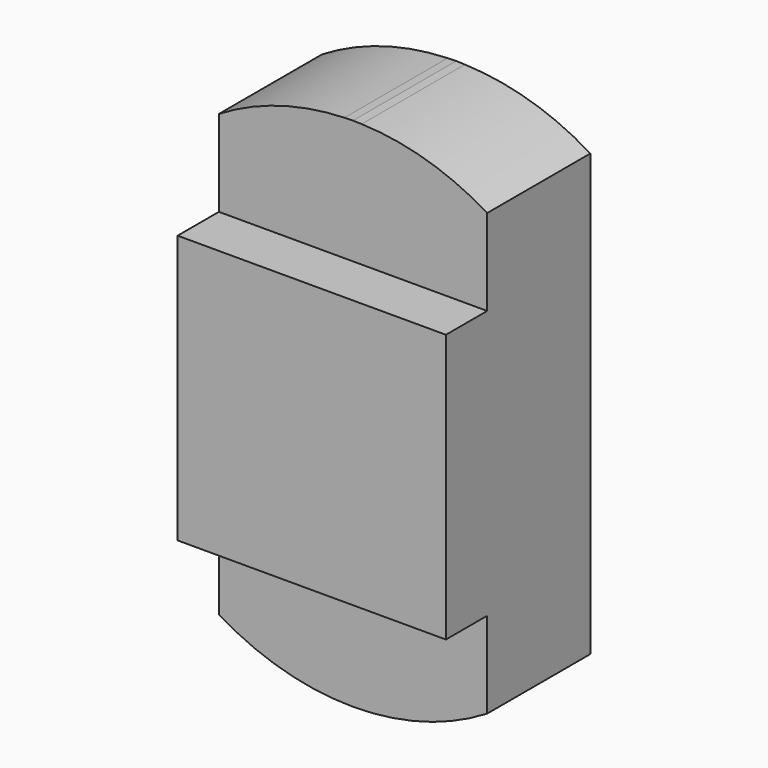
from build123d import *

# Parameters (mm, degrees)
F0_R      = 12.7
F1_DEPTH  = 10
F1_FACE_W = 52
F1_FACE_H = 52
F2_DEPTH  = 25


with BuildPart() as f1:
    # F0 (on Front) → F1 (new body)
    with BuildSketch(Plane.XZ):
        with BuildLine():
            Line((-26, -26), (0, -26))
            ThreePointArc((0, -26), (-18.384776, -18.384776), (-26, 0))
            Line((-26, 0), (-26, -26))
        make_face()
        with BuildLine():
            Line((26, -26), (26, 0))
            ThreePointArc((26, 0), (18.384776, -18.384776), (0, -26))
            Line((0, -26), (26, -26))
        make_face()
        with BuildLine():
            ThreePointArc((-26, 0), (-18.384776, 18.384776), (0, 26))
            Line((0, 26), (-26, 26))
            Line((-26, 26), (-26, 0))
        make_face()
        with BuildLine():
            ThreePointArc((0, 26), (18.384776, 18.384776), (26, 0))
            Line((26, 0), (26, 26))
            Line((26, 26), (0, 26))
        make_face()
        with BuildLine():
            ThreePointArc((0, -26), (18.384776, -18.384776), (26, 0))
            ThreePointArc((26, 0), (18.384776, 18.384776), (0, 26))
            ThreePointArc((0, 26), (-18.384776, 18.384776), (-26, 0))
            ThreePointArc((-26, 0), (-18.384776, -18.384776), (0, -26))
        make_face()
        Circle(F0_R, mode=Mode.SUBTRACT)
        Circle(F0_R)
    extrude(amount=F1_DEPTH)

    # F0 (on Front) + F1_face (on face) → F2 (join)
    with BuildSketch(Plane.XZ):
        with BuildLine():
            Line((26, -26), (26, 0))
            ThreePointArc((26, 0), (18.384776, -18.384776), (0, -26))
            Line((0, -26), (26, -26))
        make_face()
        with BuildLine():
            ThreePointArc((0, 26), (18.384776, 18.384776), (26, 0))
            Line((26, 0), (26, 26))
            Line((26, 26), (0, 26))
        make_face()
        with BuildLine():
            Line((-26, 26), (0, 26))
            Line((0, 26), (26, 26))
            Line((26, 26), (26, 42.708313))
            ThreePointArc((26, 42.708313), (14.304673, 47.910086), (1.67188, 49.97204))
            Line((1.67188, 49.97204), (0, 50.027975))
            Line((0, 50.027975), (-1.67188, 49.97204))
            ThreePointArc((-1.67188, 49.97204), (-14.304673, 47.910086), (-26, 42.708313))
            Line((-26, 42.708313), (-26, 26))
        make_face()
        with BuildLine():
            ThreePointArc((-26, 0), (-18.384776, 18.384776), (0, 26))
            Line((0, 26), (-26, 26))
            Line((-26, 26), (-26, 0))
        make_face()
        with BuildLine():
            Line((-26, -26), (0, -26))
            ThreePointArc((0, -26), (-18.384776, -18.384776), (-26, 0))
            Line((-26, 0), (-26, -26))
        make_face()
        with BuildLine():
            Line((26, -26), (0, -26))
            Line((0, -26), (-26, -26))
            Line((-26, -26), (-26, -42.708313))
            ThreePointArc((-26, -42.708313), (0, -50), (26, -42.708313))
            Line((26, -42.708313), (26, -26))
        make_face()
    with BuildSketch(Plane.XZ.offset(10)):
        Rectangle(F1_FACE_W, F1_FACE_H)
    extrude(amount=F2_DEPTH)


solid = f1.part
